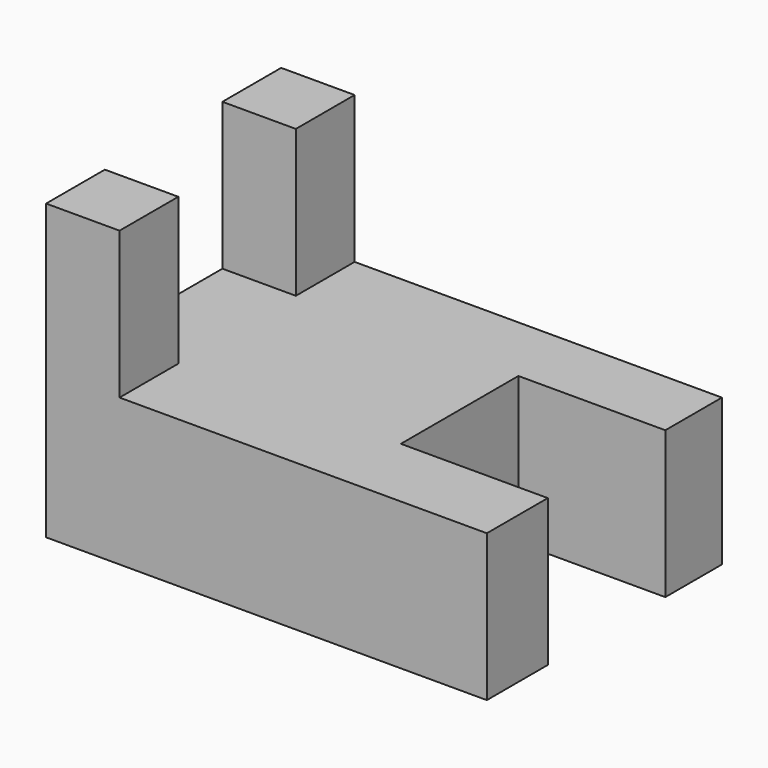
from build123d import *

# Parameters (mm, degrees)
F1_DEPTH = 25.4
F2_W     = 12.7
F2_H     = 12.7
F3_DEPTH = 25.4
F4_W     = 12.7
F4_H     = 12.7
F5_DEPTH = 12.7


with BuildPart() as f1:
    # F0 (on Front) → F1 (new body)
    with BuildSketch(Plane.XZ):
        Polygon((0, 25.4), (0, 0), (38.1, 0), (38.1, 12.7), (6.35, 12.7), (6.35, 25.4), align=None)
    extrude(amount=F1_DEPTH)

    # F2 (on face) → F3 (cut)
    with BuildSketch(Plane.YZ.offset(6.35)):
        with Locations((-12.7, 19.05)):
            Rectangle(F2_W, F2_H)
    extrude(amount=-F3_DEPTH, mode=Mode.SUBTRACT)

    # F4 (on face) → F5 (cut)
    with BuildSketch(Plane.YZ.offset(38.1)):
        with Locations((-12.466443, 6.35)):
            Rectangle(F4_W, F4_H)
    extrude(amount=-F5_DEPTH, mode=Mode.SUBTRACT)


solid = f1.part
